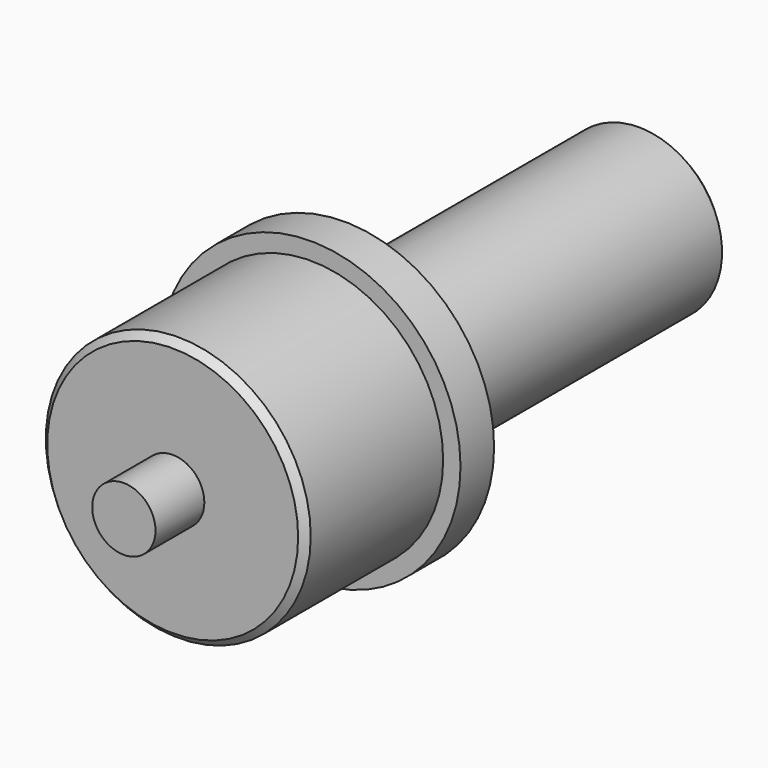
from build123d import *

# Parameters (mm, degrees)
F0_R     = 5.35
F1_DEPTH = 1.5
F2_R     = 4.73
F3_DEPTH = 6.16
F4_R     = 1.13
F5_DEPTH = 2.18
F6_R     = 2.97
F7_DEPTH = 13.4
F8_SIZE  = 0.25


with BuildPart() as f1:
    # F0 (on Front) → F1 (new body)
    with BuildSketch(Plane.XZ):
        Circle(F0_R)
    extrude(amount=F1_DEPTH)

    # F2 (on face) → F3 (join)
    with BuildSketch(Plane.XZ.offset(1.5)):
        Circle(F2_R)
    extrude(amount=F3_DEPTH)

    # F4 (on face) → F5 (join)
    with BuildSketch(Plane.XZ.offset(7.66)):
        Circle(F4_R)
    extrude(amount=F5_DEPTH)

    # F6 (on face) → F7 (join)
    with BuildSketch(Plane(origin=(0, 0, 0), x_dir=(-1, 0, 0), z_dir=(0, 1, 0))):
        Circle(F6_R)
    extrude(amount=F7_DEPTH)

    # F8
    f8_edges = [f1.edges().sort_by_distance(p)[0] for p in [
        (-4.73, -7.66, 0),
        (2.97, 13.4, 0),
    ]]
    chamfer(f8_edges, length=F8_SIZE)


solid = f1.part
